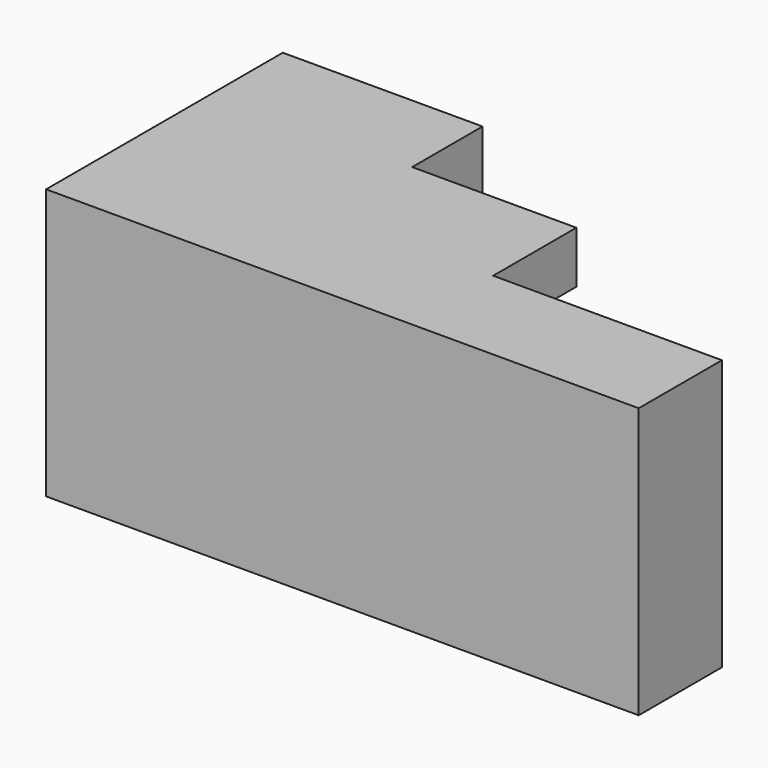
from build123d import *

# Parameters (mm, degrees)
F0_W     = 144.78
F0_H     = 66.04
F1_DEPTH = 25.4
F2_W     = 88.9
F2_H     = 12.7
F3_DEPTH = 25.4
F4_W     = 48.7939789891
F4_H     = 66.04
F5_DEPTH = 46.88145


with BuildPart() as f1:
    # F0 (on Front) → F1 (new body)
    with BuildSketch(Plane.XZ):
        with Locations((-0.7880558757, -7.7282395214)):
            Rectangle(F0_W, F0_H)
    extrude(amount=F1_DEPTH)

    # F2 (on Front) → F3 (join)
    with BuildSketch(Plane.XZ):
        with Locations((-28.7280558757, -34.3982395214)):
            Rectangle(F2_W, F2_H)
        with Locations((-28.7280558757, 18.9417604786)):
            Rectangle(F2_W, F2_H)
    extrude(amount=-F3_DEPTH)

    # F4 (on Front) → F5 (join)
    with BuildSketch(Plane.XZ):
        with Locations((-48.7810663811, -7.7282395214)):
            Rectangle(F4_W, F4_H)
    extrude(amount=-F5_DEPTH)


solid = f1.part
